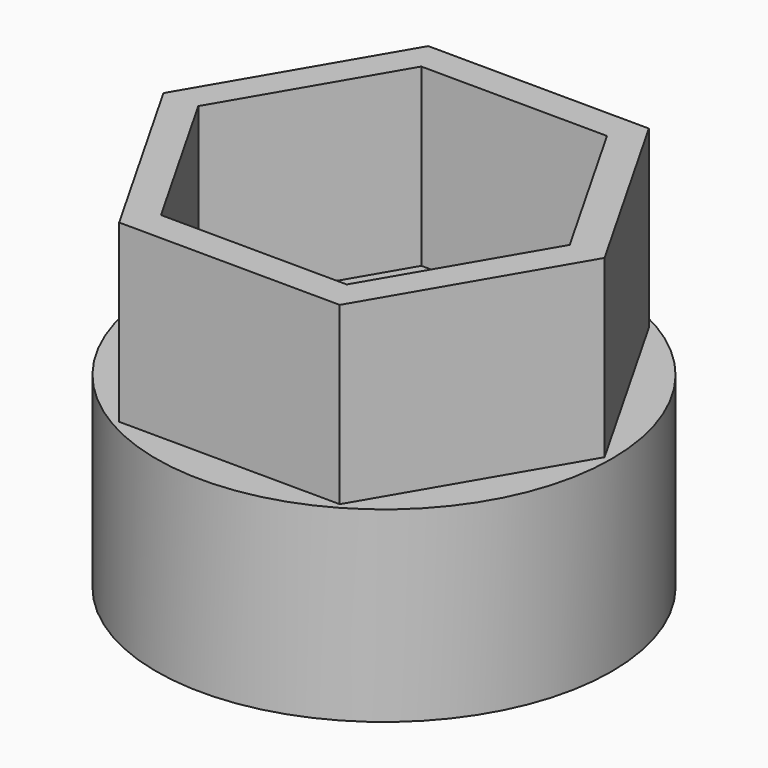
from build123d import *

# Parameters (mm, degrees)
F2_DEPTH  = 19.05
F3_DEPTH  = 67.818
F4_R      = 24.7218142408
F5_DEPTH  = 2.54
F6_R      = 8.255
F7_DEPTH  = 60.706
F8_DEPTH  = 17.78
F9_R      = 22.0208797998
F9_R_2    = 8.255
F10_DEPTH = 15.24
F11_R     = 3.81
F12_DEPTH = 25.4


with BuildPart() as f2:
    # F0 (on Top) → F2 (new body)
    with BuildSketch(Plane.XY):
        Polygon((11.9120152821, -20.8982058203), (24.0543847749, -0.1329950655), (12.1423694928, 20.7652107547), (-11.9120152821, 20.8982058203), (-24.0543847749, 0.1329950655), (-12.1423694928, -20.7652107547), align=None)
    extrude(amount=F2_DEPTH)

    # F1 (on face) → F3 (cut)
    with BuildSketch(Plane.XY):
        Polygon((20.2553256916, -0.1120183326), (10.2246735675, 17.4856174446), (-10.0306521241, 17.5976357771), (-20.2553256916, 0.1120183326), (-10.2246735675, -17.4856174446), (10.0306521241, -17.5976357771), align=None)
    extrude(amount=F3_DEPTH, mode=Mode.SUBTRACT)

    # F4 (on Top) → F5 (join)
    with BuildSketch(Plane.XY):
        Circle(F4_R)
    extrude(amount=-F5_DEPTH)

    # F6 (on face) → F7 (cut)
    with BuildSketch(Plane.XY):
        Circle(F6_R)
    extrude(amount=-F7_DEPTH, mode=Mode.SUBTRACT)

    # F8 (add): a face of the model
    f8_faces = [f2.faces().sort_by_distance(p)[0] for p in [
        (-24.0225757411, 0, -2.54),
    ]]
    extrude(f8_faces, amount=F8_DEPTH)

    # F9 (on face) → F10 (cut)
    with BuildSketch(Plane(origin=(0, 0, -20.32), x_dir=(1, 0, 0), z_dir=(0, 0, -1))):
        Circle(F9_R)
        Circle(F9_R_2, mode=Mode.SUBTRACT)
    extrude(amount=-F10_DEPTH, mode=Mode.SUBTRACT)

    # F11 (on face) → F12 (cut)
    with BuildSketch(Plane.XY):
        with Locations((-6.1764977872, 12.0172752067)):
            Circle(F11_R)
    extrude(amount=-F12_DEPTH, mode=Mode.SUBTRACT)


solid = f2.part
